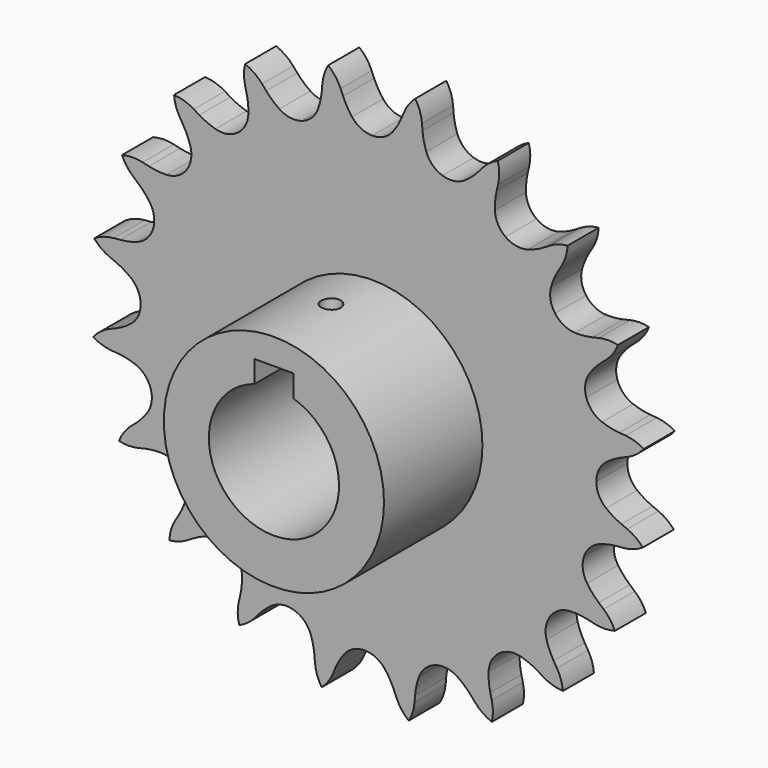
from build123d import *

# Parameters (mm, degrees)
F0_R     = 17
F0_R_2   = 10.05
F1_DEPTH = 25
F3_R     = 10.05
F4_DEPTH = 6
F5_W     = 6
F5_H     = 13
F6_DEPTH = 25
F7_R     = 1.5
F8_DEPTH = 43.95856


with BuildPart() as f1:
    # F0 (on Front) → F1 (new body)
    with BuildSketch(Plane.XZ):
        Circle(F0_R)
        Circle(F0_R_2, mode=Mode.SUBTRACT)
    extrude(amount=F1_DEPTH)

    # F3 (on Front) → F4 (join)
    with BuildSketch(Plane.XZ):
        with BuildLine():
            ThreePointArc((0, 36.6108), (-1.745287, 37.013731), (-3.137307, 38.140967))
            ThreePointArc((-3.137307, 38.140967), (-3.905976, 39.272029), (-4.518303, 40.494817))
            Line((-4.518303, 40.494817), (-4.899286, 41.40114))
            ThreePointArc((-4.899286, 41.40114), (-5.700671, 42.797904), (-6.817973, 43.95756))
            ThreePointArc((-6.817973, 43.95756), (-7.429838, 42.602667), (-7.721173, 41.144848))
            Line((-7.721173, 41.144848), (-7.80344, 40.165153))
            ThreePointArc((-7.80344, 40.165153), (-8.007935, 38.812994), (-8.389465, 37.499758))
            ThreePointArc((-8.389465, 37.499758), (-9.36502, 35.997536), (-10.900374, 35.075002))
            ThreePointArc((-10.900374, 35.075002), (-12.684753, 34.918889), (-14.356978, 35.560796))
            ThreePointArc((-14.356978, 35.560796), (-15.437543, 36.398968), (-16.397762, 37.372689))
            Line((-16.397762, 37.372689), (-17.040168, 38.116923))
            ThreePointArc((-17.040168, 38.116923), (-18.233954, 39.197683), (-19.654926, 39.955316))
            ThreePointArc((-19.654926, 39.955316), (-19.818159, 38.47766), (-19.644743, 37.001164))
            Line((-19.644743, 37.001164), (-19.420242, 36.043997))
            ThreePointArc((-19.420242, 36.043997), (-19.196888, 34.694825), (-19.153932, 33.327964))
            ThreePointArc((-19.153932, 33.327964), (-19.617528, 31.597802), (-20.792658, 30.24597))
            ThreePointArc((-20.792658, 30.24597), (-22.441462, 29.546094), (-24.230202, 29.639838))
            ThreePointArc((-24.230202, 29.639838), (-25.51689, 30.103074), (-26.731009, 30.732414))
            Line((-26.731009, 30.732414), (-27.571954, 31.241708))
            ThreePointArc((-27.571954, 31.241708), (-29.041286, 31.900672), (-30.626831, 32.18212))
            ThreePointArc((-30.626831, 32.18212), (-30.325455, 30.726343), (-29.704264, 29.375701))
            Line((-29.704264, 29.375701), (-29.19497, 28.534755))
            ThreePointArc((-29.19497, 28.534755), (-28.56563, 27.320636), (-28.102394, 26.033949))
            ThreePointArc((-28.102394, 26.033949), (-28.00865, 24.245208), (-28.708526, 22.596404))
            ThreePointArc((-28.708526, 22.596404), (-30.060358, 21.421274), (-31.79052, 20.957679))
            ThreePointArc((-31.79052, 20.957679), (-33.157381, 21.000634), (-34.506553, 21.223988))
            Line((-34.506553, 21.223988), (-35.46372, 21.44849))
            ThreePointArc((-35.46372, 21.44849), (-37.064768, 21.621153), (-38.659684, 21.398865))
            ThreePointArc((-38.659684, 21.398865), (-37.923198, 20.10747), (-36.915039, 19.014891))
            Line((-36.915039, 19.014891), (-36.170805, 18.372485))
            ThreePointArc((-36.170805, 18.372485), (-35.197084, 17.412266), (-34.358912, 16.331701))
            ThreePointArc((-34.358912, 16.331701), (-33.717005, 14.659476), (-33.873118, 12.875097))
            ThreePointArc((-33.873118, 12.875097), (-34.795652, 11.339743), (-36.297875, 10.364188))
            ThreePointArc((-36.297875, 10.364188), (-37.61111, 9.982658), (-38.96327, 9.778163))
            Line((-38.96327, 9.778163), (-39.942965, 9.695896))
            ThreePointArc((-39.942965, 9.695896), (-41.519008, 9.365357), (-42.967172, 8.661093))
            ThreePointArc((-42.967172, 8.661093), (-41.867669, 7.66049), (-40.571228, 6.932923))
            Line((-40.571228, 6.932923), (-39.664904, 6.55194))
            ThreePointArc((-39.664904, 6.55194), (-38.442117, 5.939614), (-37.311055, 5.170945))
            ThreePointArc((-37.311055, 5.170945), (-36.183819, 3.778925), (-35.780888, 2.033638))
            ThreePointArc((-35.780888, 2.033638), (-36.183819, 0.28835), (-37.311055, -1.10367))
            ThreePointArc((-37.311055, -1.10367), (-38.442117, -1.872339), (-39.664904, -2.484665))
            Line((-39.664904, -2.484665), (-40.571228, -2.865648))
            ThreePointArc((-40.571228, -2.865648), (-41.967992, -3.667033), (-43.127648, -4.784336))
            ThreePointArc((-43.127648, -4.784336), (-41.772755, -5.396201), (-40.314936, -5.687535))
            Line((-40.314936, -5.687535), (-39.335241, -5.769802))
            ThreePointArc((-39.335241, -5.769802), (-37.983082, -5.974297), (-36.669846, -6.355827))
            ThreePointArc((-36.669846, -6.355827), (-35.167623, -7.331382), (-34.24509, -8.866736))
            ThreePointArc((-34.24509, -8.866736), (-34.088977, -10.651116), (-34.730884, -12.32334))
            ThreePointArc((-34.730884, -12.32334), (-35.569056, -13.403905), (-36.542777, -14.364125))
            Line((-36.542777, -14.364125), (-37.287011, -15.00653))
            ThreePointArc((-37.287011, -15.00653), (-38.367771, -16.200317), (-39.125404, -17.621288))
            ThreePointArc((-39.125404, -17.621288), (-37.647748, -17.784521), (-36.171252, -17.611106))
            Line((-36.171252, -17.611106), (-35.214085, -17.386604))
            ThreePointArc((-35.214085, -17.386604), (-33.864913, -17.16325), (-32.498052, -17.120295))
            ThreePointArc((-32.498052, -17.120295), (-30.76789, -17.58389), (-29.416058, -18.75902))
            ThreePointArc((-29.416058, -18.75902), (-28.716182, -20.407824), (-28.809926, -22.196565))
            ThreePointArc((-28.809926, -22.196565), (-29.273162, -23.483252), (-29.902502, -24.697371))
            Line((-29.902502, -24.697371), (-30.411796, -25.538317))
            ThreePointArc((-30.411796, -25.538317), (-31.07076, -27.007648), (-31.352207, -28.593194))
            ThreePointArc((-31.352207, -28.593194), (-29.896431, -28.291817), (-28.545789, -27.670627))
            Line((-28.545789, -27.670627), (-27.704843, -27.161332))
            ThreePointArc((-27.704843, -27.161332), (-26.490724, -26.531993), (-25.204036, -26.068757))
            ThreePointArc((-25.204036, -26.068757), (-23.415296, -25.975013), (-21.766492, -26.674888))
            ThreePointArc((-21.766492, -26.674888), (-20.591362, -28.026721), (-20.127767, -29.756882))
            ThreePointArc((-20.127767, -29.756882), (-20.170722, -31.123743), (-20.394076, -32.472915))
            Line((-20.394076, -32.472915), (-20.618578, -33.430083))
            ThreePointArc((-20.618578, -33.430083), (-20.791241, -35.031131), (-20.568953, -36.626046))
            ThreePointArc((-20.568953, -36.626046), (-19.277558, -35.88956), (-18.184979, -34.881402))
            Line((-18.184979, -34.881402), (-17.542573, -34.137168))
            ThreePointArc((-17.542573, -34.137168), (-16.582354, -33.163447), (-15.501789, -32.325275))
            ThreePointArc((-15.501789, -32.325275), (-13.829564, -31.683368), (-12.045185, -31.839481))
            ThreePointArc((-12.045185, -31.839481), (-10.509831, -32.762014), (-9.534276, -34.264237))
            ThreePointArc((-9.534276, -34.264237), (-9.152746, -35.577473), (-8.948251, -36.929632))
            Line((-8.948251, -36.929632), (-8.865984, -37.909327))
            ThreePointArc((-8.865984, -37.909327), (-8.535445, -39.48537), (-7.83118, -40.933534))
            ThreePointArc((-7.83118, -40.933534), (-6.830578, -39.834031), (-6.103011, -38.53759))
            Line((-6.103011, -38.53759), (-5.722028, -37.631267))
            ThreePointArc((-5.722028, -37.631267), (-5.109702, -36.408479), (-4.341033, -35.277417))
            ThreePointArc((-4.341033, -35.277417), (-2.949012, -34.150182), (-1.203725, -33.74725))
            ThreePointArc((-1.203725, -33.74725), (0.541562, -34.150182), (1.933582, -35.277417))
            ThreePointArc((1.933582, -35.277417), (2.702251, -36.408479), (3.314577, -37.631267))
            Line((3.314577, -37.631267), (3.69556, -38.53759))
            ThreePointArc((3.69556, -38.53759), (4.496945, -39.934354), (5.614248, -41.09401))
            ThreePointArc((5.614248, -41.09401), (6.226113, -39.739118), (6.517447, -38.281299))
            Line((6.517447, -38.281299), (6.599714, -37.301604))
            ThreePointArc((6.599714, -37.301604), (6.804209, -35.949444), (7.18574, -34.636209))
            ThreePointArc((7.18574, -34.636209), (8.161294, -33.133986), (9.696648, -32.211452))
            ThreePointArc((9.696648, -32.211452), (11.481028, -32.055339), (13.153253, -32.697246))
            ThreePointArc((13.153253, -32.697246), (14.233818, -33.535418), (15.194037, -34.509139))
            Line((15.194037, -34.509139), (15.836443, -35.253373))
            ThreePointArc((15.836443, -35.253373), (17.030229, -36.334133), (18.4512, -37.091766))
            ThreePointArc((18.4512, -37.091766), (18.614433, -35.61411), (18.441018, -34.137615))
            Line((18.441018, -34.137615), (18.216516, -33.180447))
            ThreePointArc((18.216516, -33.180447), (17.993162, -31.831275), (17.950207, -30.464414))
            ThreePointArc((17.950207, -30.464414), (18.413803, -28.734253), (19.588932, -27.38242))
            ThreePointArc((19.588932, -27.38242), (21.237736, -26.682545), (23.026477, -26.776289))
            ThreePointArc((23.026477, -26.776289), (24.313165, -27.239525), (25.527284, -27.868864))
            Line((25.527284, -27.868864), (26.368229, -28.378159))
            ThreePointArc((26.368229, -28.378159), (27.83756, -29.037122), (29.423106, -29.31857))
            ThreePointArc((29.423106, -29.31857), (29.121729, -27.862794), (28.500539, -26.512151))
            Line((28.500539, -26.512151), (27.991244, -25.671206))
            ThreePointArc((27.991244, -25.671206), (27.361905, -24.457087), (26.898669, -23.170399))
            ThreePointArc((26.898669, -23.170399), (26.804925, -21.381658), (27.5048, -19.732855))
            ThreePointArc((27.5048, -19.732855), (28.856633, -18.557725), (30.586794, -18.094129))
            ThreePointArc((30.586794, -18.094129), (31.953655, -18.137085), (33.302827, -18.360439))
            Line((33.302827, -18.360439), (34.259995, -18.58494))
            ThreePointArc((34.259995, -18.58494), (35.861043, -18.757603), (37.455958, -18.535315))
            ThreePointArc((37.455958, -18.535315), (36.719472, -17.24392), (35.711314, -16.151341))
            Line((35.711314, -16.151341), (34.96708, -15.508935))
            ThreePointArc((34.96708, -15.508935), (33.993359, -14.548716), (33.155187, -13.468151))
            ThreePointArc((33.155187, -13.468151), (32.51328, -11.795927), (32.669393, -10.011547))
            ThreePointArc((32.669393, -10.011547), (33.591926, -8.476193), (35.094149, -7.500638))
            ThreePointArc((35.094149, -7.500638), (36.407385, -7.119108), (37.759544, -6.914613))
            Line((37.759544, -6.914613), (38.739239, -6.832346))
            ThreePointArc((38.739239, -6.832346), (40.315282, -6.501807), (41.763446, -5.797543))
            ThreePointArc((41.763446, -5.797543), (40.663944, -4.79694), (39.367502, -4.069374))
            Line((39.367502, -4.069374), (38.461179, -3.68839))
            ThreePointArc((38.461179, -3.68839), (37.238391, -3.076064), (36.107329, -2.307395))
            ThreePointArc((36.107329, -2.307395), (34.980094, -0.915375), (34.577162, 0.829912))
            ThreePointArc((34.577162, 0.829912), (34.980094, 2.575199), (36.107329, 3.967219))
            ThreePointArc((36.107329, 3.967219), (37.238391, 4.735888), (38.461179, 5.348215))
            Line((38.461179, 5.348215), (39.367502, 5.729198))
            ThreePointArc((39.367502, 5.729198), (40.764266, 6.530583), (41.923923, 7.647885))
            ThreePointArc((41.923923, 7.647885), (40.56903, 8.25975), (39.111211, 8.551085))
            Line((39.111211, 8.551085), (38.131516, 8.633352))
            ThreePointArc((38.131516, 8.633352), (36.779356, 8.837847), (35.466121, 9.219377))
            ThreePointArc((35.466121, 9.219377), (33.963898, 10.194932), (33.041364, 11.730286))
            ThreePointArc((33.041364, 11.730286), (32.885251, 13.514665), (33.527158, 15.18689))
            ThreePointArc((33.527158, 15.18689), (34.36533, 16.267455), (35.339051, 17.227674))
            Line((35.339051, 17.227674), (36.083286, 17.87008))
            ThreePointArc((36.083286, 17.87008), (37.164046, 19.063866), (37.921679, 20.484838))
            ThreePointArc((37.921679, 20.484838), (36.444023, 20.648071), (34.967527, 20.474655))
            Line((34.967527, 20.474655), (34.01036, 20.250154))
            ThreePointArc((34.01036, 20.250154), (32.661187, 20.0268), (31.294327, 19.983845))
            ThreePointArc((31.294327, 19.983845), (29.564165, 20.44744), (28.212333, 21.62257))
            ThreePointArc((28.212333, 21.62257), (27.512457, 23.271374), (27.606201, 25.060114))
            ThreePointArc((27.606201, 25.060114), (28.069437, 26.346802), (28.698776, 27.560921))
            Line((28.698776, 27.560921), (29.208071, 28.401866))
            ThreePointArc((29.208071, 28.401866), (29.867035, 29.871198), (30.148482, 31.456743))
            ThreePointArc((30.148482, 31.456743), (28.692706, 31.155367), (27.342063, 30.534176))
            Line((27.342063, 30.534176), (26.501118, 30.024882))
            ThreePointArc((26.501118, 30.024882), (25.286999, 29.395542), (24.000311, 28.932306))
            ThreePointArc((24.000311, 28.932306), (22.211571, 28.838562), (20.562767, 29.538438))
            ThreePointArc((20.562767, 29.538438), (19.387637, 30.89027), (18.924041, 32.620432))
            ThreePointArc((18.924041, 32.620432), (18.966997, 33.987293), (19.190351, 35.336465))
            Line((19.190351, 35.336465), (19.414852, 36.293632))
            ThreePointArc((19.414852, 36.293632), (19.587516, 37.89468), (19.365228, 39.489596))
            ThreePointArc((19.365228, 39.489596), (18.073833, 38.75311), (16.981253, 37.744951))
            Line((16.981253, 37.744951), (16.338848, 37.000717))
            ThreePointArc((16.338848, 37.000717), (15.378628, 36.026996), (14.298063, 35.188824))
            ThreePointArc((14.298063, 35.188824), (12.625839, 34.546917), (10.841459, 34.70303))
            ThreePointArc((10.841459, 34.70303), (9.306105, 35.625564), (8.330551, 37.127787))
            ThreePointArc((8.330551, 37.127787), (7.94902, 38.441022), (7.744525, 39.793182))
            Line((7.744525, 39.793182), (7.662258, 40.772877))
            ThreePointArc((7.662258, 40.772877), (7.33172, 42.34892), (6.627455, 43.797084))
            ThreePointArc((6.627455, 43.797084), (5.626852, 42.697581), (4.899286, 41.40114))
            Line((4.899286, 41.40114), (4.518303, 40.494817))
            ThreePointArc((4.518303, 40.494817), (3.905976, 39.272029), (3.137307, 38.140967))
            ThreePointArc((3.137307, 38.140967), (1.745287, 37.013731), (0, 36.6108))
        make_face()
        Circle(F3_R, mode=Mode.SUBTRACT)
    extrude(amount=F4_DEPTH)

    # F5 (on Front) → F6 (cut)
    with BuildSketch(Plane.XZ):
        with Locations((0, 6.5)):
            Rectangle(F5_W, F5_H)
    extrude(amount=F6_DEPTH, mode=Mode.SUBTRACT)

    # F7 (on Top) → F8 (cut, through all)
    with BuildSketch(Plane.XY):
        with Locations((0, -14)):
            Circle(F7_R)
    extrude(amount=F8_DEPTH, mode=Mode.SUBTRACT)


solid = f1.part
